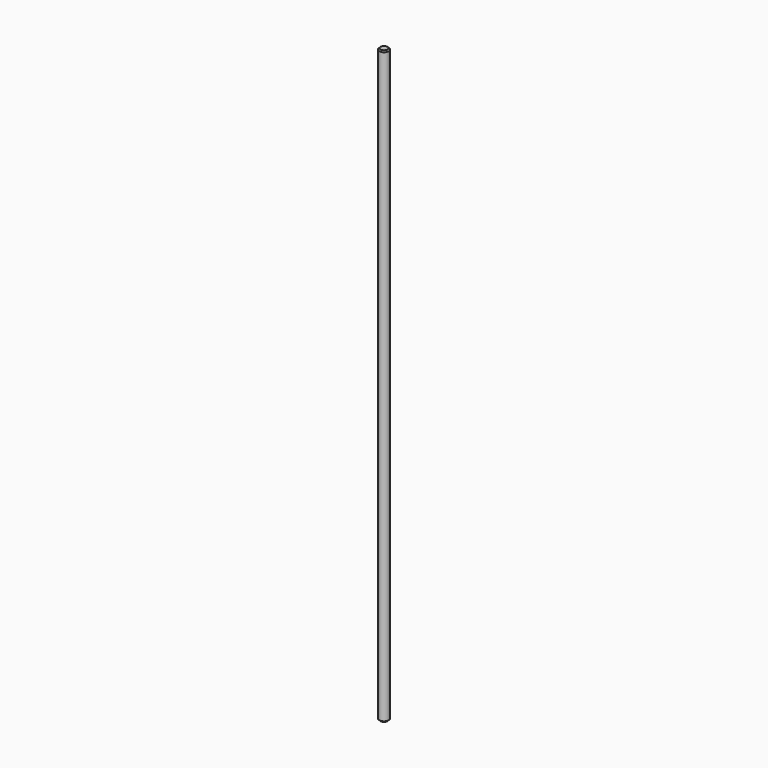
from build123d import *

# Parameters (mm, degrees)
F0_R     = 4
F1_DEPTH = 250
F2_SIZE  = 1


with BuildPart() as f1:
    # F0 (on Top) → F1 (new body, symmetric)
    with BuildSketch(Plane.XY):
        Circle(F0_R)
    extrude(amount=F1_DEPTH, both=True)

    # F2
    f2_edges = [f1.edges().sort_by_distance(p)[0] for p in [
        (-4, 0, -250),
        (-4, 0, 250),
    ]]
    chamfer(f2_edges, length=F2_SIZE)


solid = f1.part
